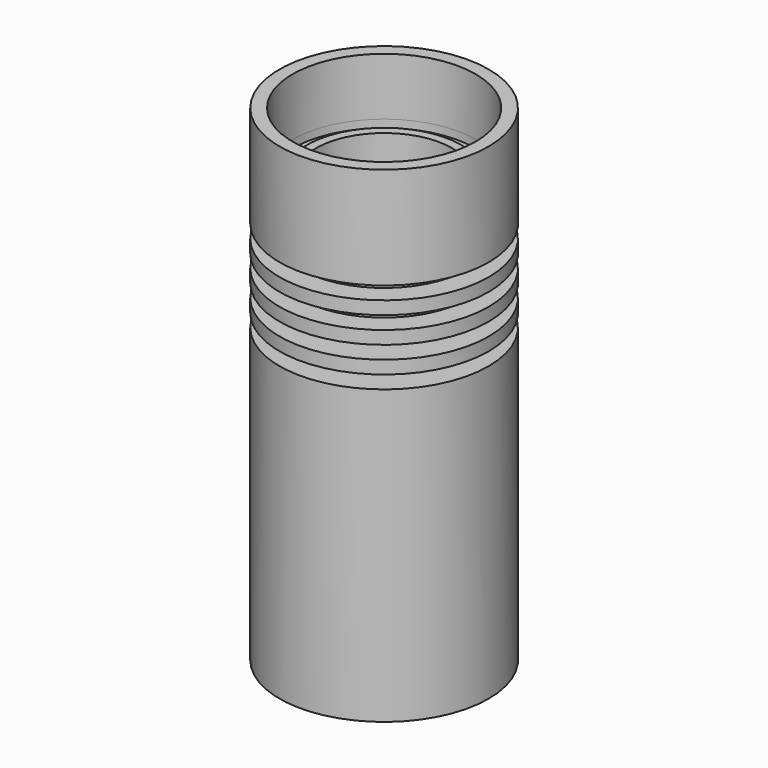
from build123d import *

# Parameters (mm, degrees)
SKETCH_R       = 18.7
PAD_DEPTH      = 24
SKETCH001_R    = 16
PAD001_DEPTH   = 30
SKETCH002_R    = 1
PAD002_DEPTH   = 12
SKETCH003_R    = 13
PAD003_DEPTH   = 16
SKETCH004_R    = 17.5
PAD004_DEPTH   = 11
SKETCH008_R    = 22
SKETCH008_R_2  = 12
PAD008_DEPTH   = 2.5
SKETCH007_R    = 22
SKETCH007_R_2  = 12
PAD007_DEPTH   = 2.5
SKETCH006_R    = 22
SKETCH006_R_2  = 16
PAD006_DEPTH   = 2.5
SKETCH005_R    = 22
SKETCH005_R_2  = 16
PAD005_DEPTH   = 2.5
CYLINDER_R     = 20
CYLINDER_DEPTH = 93
SKETCH012_R    = 17.5
SKETCH012_R_2  = 14.7
POCKET_DEPTH   = 1.5


with BuildPart() as obj1:
    # Sketch → Pad (new body)
    with BuildSketch(Plane.XY):
        Circle(SKETCH_R)
    extrude(amount=PAD_DEPTH)

    # Sketch001 → Pad001 (new body)
    with BuildSketch(Plane.XY.offset(24)):
        Circle(SKETCH001_R)
    extrude(amount=PAD001_DEPTH)

    # Sketch002 → Pad002 (new body)
    with BuildSketch(Plane.XY.offset(54)):
        with Locations((-9.2, 0)):
            Circle(SKETCH002_R)
    extrude(amount=PAD002_DEPTH)

    # Sketch003 → Pad003 (new body)
    with BuildSketch(Plane.XY.offset(66)):
        Circle(SKETCH003_R)
    extrude(amount=PAD003_DEPTH)

    # Sketch004 → Pad004 (new body)
    with BuildSketch(Plane.XY.offset(82)):
        Circle(SKETCH004_R)
    extrude(amount=PAD004_DEPTH)


with BuildPart() as pad008:
    # Sketch008 → Pad008 (new body)
    with BuildSketch(Plane.XY.offset(56)):
        Circle(SKETCH008_R)
        Circle(SKETCH008_R_2, mode=Mode.SUBTRACT)
    extrude(amount=PAD008_DEPTH)


with BuildPart() as pad007:
    # Sketch007 → Pad007 (new body)
    with BuildSketch(Plane.XY.offset(61)):
        Circle(SKETCH007_R)
        Circle(SKETCH007_R_2, mode=Mode.SUBTRACT)
    extrude(amount=PAD007_DEPTH)


with BuildPart() as pad006:
    # Sketch006 → Pad006 (new body)
    with BuildSketch(Plane.XY.offset(71)):
        Circle(SKETCH006_R)
        Circle(SKETCH006_R_2, mode=Mode.SUBTRACT)
    extrude(amount=PAD006_DEPTH)


with BuildPart() as pad005:
    # Sketch005 → Pad005 (new body)
    with BuildSketch(Plane.XY.offset(66)):
        Circle(SKETCH005_R)
        Circle(SKETCH005_R_2, mode=Mode.SUBTRACT)
    extrude(amount=PAD005_DEPTH)


with BuildPart() as nut_axial:
    # Cylinder → Cylinder (new body)
    with BuildSketch(Plane.XY):
        Circle(CYLINDER_R)
    extrude(amount=CYLINDER_DEPTH)

    # Cut: cut Pad005
    add(pad005.part, mode=Mode.SUBTRACT)

    # Cut001: cut Pad006
    add(pad006.part, mode=Mode.SUBTRACT)

    # Cut002: cut Pad007
    add(pad007.part, mode=Mode.SUBTRACT)

    # Cut003: cut Pad008
    add(pad008.part, mode=Mode.SUBTRACT)

    # Cut010: cut obj1
    add(obj1.part, mode=Mode.SUBTRACT)

    # Sketch012 → Pocket (cut)
    with BuildSketch(Plane.XY.offset(82)):
        Circle(SKETCH012_R)
        Circle(SKETCH012_R_2, mode=Mode.SUBTRACT)
    extrude(amount=-POCKET_DEPTH, mode=Mode.SUBTRACT)


solid = nut_axial.part
